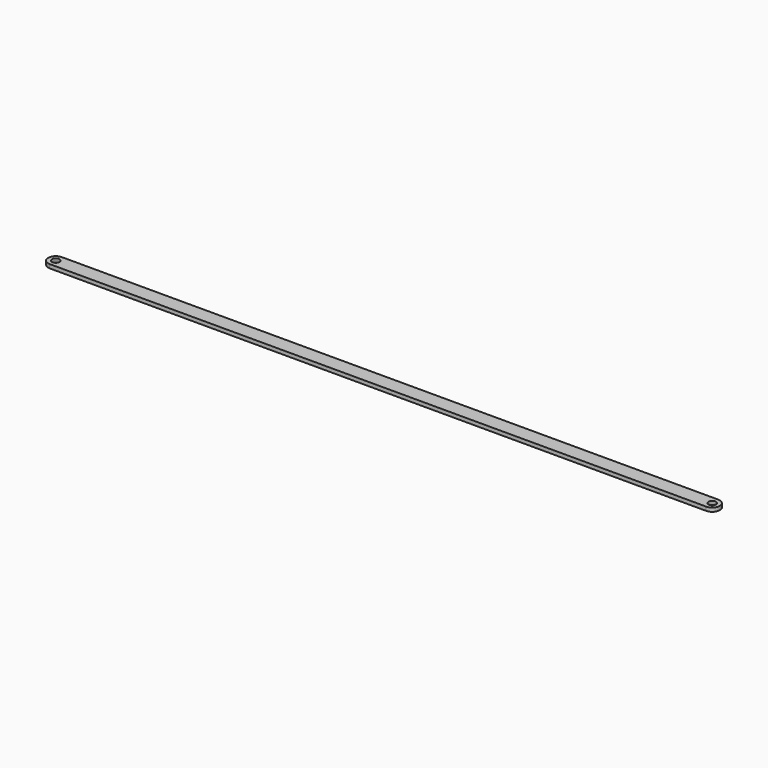
from build123d import *

# Parameters (mm, degrees)
F0_R     = 20
F1_DEPTH = 10


with BuildPart() as f1:
    # F0 (on Top) → F1 (new body, symmetric)
    with BuildSketch(Plane.XY):
        with BuildLine():
            Line((1734, -40), (1734, 0))
            Line((1734, 0), (1734, 40))
            Line((1734, 40), (0, 40))
            ThreePointArc((0, 40), (-40, 0), (0, -40))
            Line((0, -40), (1734, -40))
        make_face()
        Circle(F0_R, mode=Mode.SUBTRACT)
        with BuildLine():
            Line((1734, 40), (1734, 0))
            Line((1734, 0), (1734, -40))
            Line((1734, -40), (3468, -40))
            ThreePointArc((3468, -40), (3508, 0), (3468, 40))
            Line((3468, 40), (1734, 40))
        make_face()
        with BuildLine():
            ThreePointArc((3488, 0), (3468, -20), (3448, 0))
            ThreePointArc((3448, 0), (3468, 20), (3488, 0))
        make_face(mode=Mode.SUBTRACT)
    extrude(amount=F1_DEPTH, both=True)


solid = f1.part
